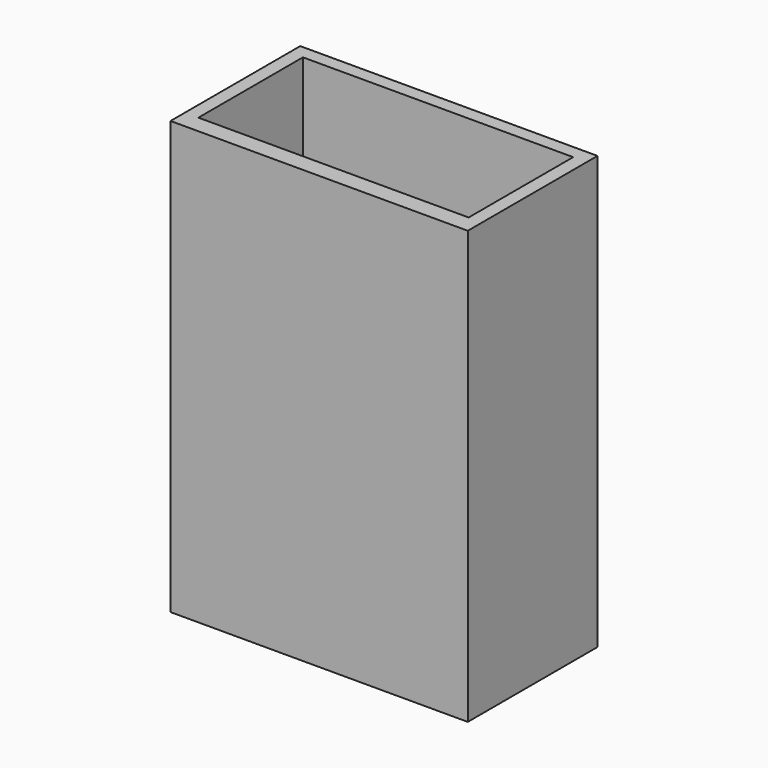
from build123d import *

# Parameters (mm, degrees)
F0_W        = 11
F0_H        = 6
F0_W_2      = 10
F0_H_2      = 4.835134
F1_DEPTH    = 15
F1_FACE_W   = 11
F1_FACE_H   = 6
F1_FACE_W_2 = 10
F1_FACE_H_2 = 4.835134
F2_DEPTH    = 1


with BuildPart() as f1:
    # F0 (on Top) → F1 (new body)
    with BuildSketch(Plane.XY):
        Rectangle(F0_W, F0_H)
        with Locations((0, 0.082433)):
            Rectangle(F0_W_2, F0_H_2, mode=Mode.SUBTRACT)
    extrude(amount=F1_DEPTH)

    # F1_face (on face) → F2 (join)
    with BuildSketch(Plane(origin=(0, -0.225839, 0), x_dir=(1, 0, 0), z_dir=(0, 0, -1))):
        with Locations((0, -0.225839)):
            Rectangle(F1_FACE_W, F1_FACE_H)
        with Locations((0, -0.308272)):
            Rectangle(F1_FACE_W_2, F1_FACE_H_2, mode=Mode.SUBTRACT)
    extrude(amount=F2_DEPTH)


solid = f1.part
